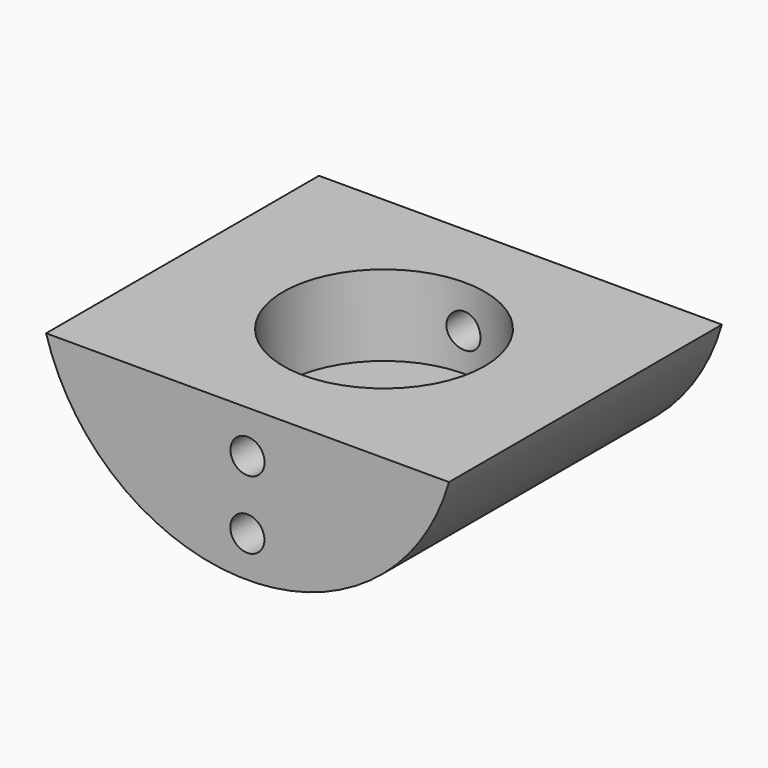
from build123d import *

# Parameters (mm, degrees)
F1_DEPTH      = 25.4
F1_DEPTH_BACK = 25.4
F2_R          = 15
F3_DEPTH      = 12
F5_R          = 2.54
F6_DEPTH      = 127


with BuildPart() as f1:
    # F0 (on Front) → F1 (new body, two sides)
    with BuildSketch(Plane.XZ) as f1_sk:
        with BuildLine():
            Line((30, 0), (-30, 0))
            ThreePointArc((-30, 0), (0, -22.597278), (30, 0))
        make_face()
    extrude(amount=F1_DEPTH)
    extrude(f1_sk.sketch, amount=-F1_DEPTH_BACK)

    # F2 (on face) → F3 (cut)
    with BuildSketch(Plane.XY):
        Circle(F2_R)
    extrude(amount=-F3_DEPTH, mode=Mode.SUBTRACT)

    # F5 (on face) → F6 (cut)
    with BuildSketch(Plane.XZ.offset(25.4)):
        with Locations((0, -6.35)):
            Circle(F5_R)
        with Locations((-0.024882, -16.51)):
            Circle(F5_R)
    extrude(amount=-F6_DEPTH, mode=Mode.SUBTRACT)


solid = f1.part
